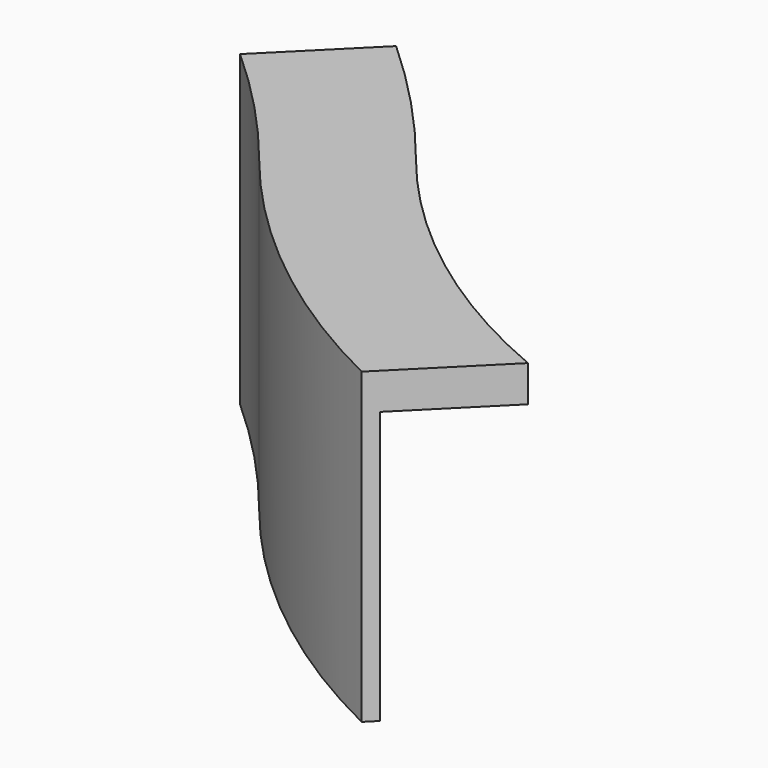
from build123d import *

# Parameters (mm, degrees)
F1_DEPTH = 762
F2_DEPTH = 101.6


with BuildPart() as f1:
    # F0 (on Top) → F1 (new body)
    with BuildSketch(Plane.XY):
        with BuildLine():
            ThreePointArc((235.1335953361, -1335.4259384174), (68.6110681715, -1144.2222922582), (-113.1126602512, -967.4029695416))
            Line((-113.1126602512, -967.4029695417), (-140.0946805009, -994.3849897914))
            ThreePointArc((-140.0946805009, -994.3849897914), (40.2165122878, -1169.6480942039), (205.3941685761, -1359.241405996))
            ThreePointArc((205.3941685761, -1359.241405996), (289.4835438119, -1458.5158098376), (378.9109891767, -1553.0100546421))
            Line((378.9109891767, -1553.0100546421), (405.8517575399, -1526.0692862789))
            ThreePointArc((405.8517575399, -1526.0692862788), (317.8666903261, -1433.099142197), (235.1335953361, -1335.4259384174))
        make_face()
        with BuildLine():
            ThreePointArc((1035.5082130261, -1974.043565321), (701.930828787, -1776.4095625199), (405.8517575399, -1526.0692862788))
            Line((405.8517575399, -1526.0692862789), (378.9109891767, -1553.0100546421))
            ThreePointArc((378.9109891767, -1553.0100546421), (674.4672939822, -1803.6177664148), (1007.0187581608, -2002.5330201863))
            Line((1007.0187581608, -2002.5330201863), (1035.5082130261, -1974.043565321))
        make_face()
    extrude(amount=-F1_DEPTH)

    # F0 (on Top) → F2 (join)
    with BuildSketch(Plane.XY):
        with BuildLine():
            ThreePointArc((473.049009416, -1144.9021977887), (295.7580255932, -940.8230955263), (102.709921508, -751.5803877826))
            Line((102.709921508, -751.5803877825), (-95.1252118494, -949.4155211399))
            ThreePointArc((-95.1252118494, -949.4155211398), (87.5406120902, -1127.2718787812), (254.9598798427, -1319.5489600317))
            ThreePointArc((254.9598798427, -1319.5489600317), (336.7887880023, -1416.1546971033), (423.8122697821, -1508.1087740368))
            Line((423.8122697821, -1508.1087740367), (621.3779044456, -1310.5431393732))
            ThreePointArc((621.3779044456, -1310.5431393732), (544.9318624402, -1229.7658010726), (473.049009416, -1144.9021977887))
        make_face()
        with BuildLine():
            ThreePointArc((254.9598798427, -1319.5489600317), (87.5406120902, -1127.2718787812), (-95.1252118494, -949.4155211398))
            Line((-95.1252118494, -949.4155211399), (-113.1126602512, -967.4029695417))
            ThreePointArc((-113.1126602512, -967.4029695416), (68.6110681715, -1144.2222922582), (235.1335953361, -1335.4259384174))
            ThreePointArc((235.1335953361, -1335.4259384174), (317.8666903261, -1433.099142197), (405.8517575399, -1526.0692862788))
            Line((405.8517575399, -1526.0692862789), (423.8122697821, -1508.1087740367))
            ThreePointArc((423.8122697821, -1508.1087740368), (336.7887880023, -1416.1546971033), (254.9598798427, -1319.5489600317))
        make_face()
        with BuildLine():
            ThreePointArc((235.1335953361, -1335.4259384174), (68.6110681715, -1144.2222922582), (-113.1126602512, -967.4029695416))
            Line((-113.1126602512, -967.4029695417), (-140.0946805009, -994.3849897914))
            ThreePointArc((-140.0946805009, -994.3849897914), (40.2165122878, -1169.6480942039), (205.3941685761, -1359.241405996))
            ThreePointArc((205.3941685761, -1359.241405996), (289.4835438119, -1458.5158098376), (378.9109891767, -1553.0100546421))
            Line((378.9109891767, -1553.0100546421), (405.8517575399, -1526.0692862789))
            ThreePointArc((405.8517575399, -1526.0692862788), (317.8666903261, -1433.099142197), (235.1335953361, -1335.4259384174))
        make_face()
        with BuildLine():
            ThreePointArc((1265.758927662, -1743.7928506851), (922.5474787999, -1558.4328584624), (621.3779044456, -1310.5431393732))
            Line((621.3779044456, -1310.5431393732), (423.8122697821, -1508.1087740367))
            ThreePointArc((423.8122697821, -1508.1087740368), (720.2517410034, -1758.2664704913), (1054.5322817128, -1955.0194966343))
            Line((1054.5322817128, -1955.0194966343), (1265.758927662, -1743.7928506851))
        make_face()
        with BuildLine():
            ThreePointArc((1054.5322817128, -1955.0194966343), (720.2517410034, -1758.2664704913), (423.8122697821, -1508.1087740368))
            Line((423.8122697821, -1508.1087740367), (405.8517575399, -1526.0692862789))
            ThreePointArc((405.8517575399, -1526.0692862788), (701.930828787, -1776.4095625199), (1035.5082130261, -1974.043565321))
            Line((1035.5082130261, -1974.043565321), (1054.5322817128, -1955.0194966343))
        make_face()
        with BuildLine():
            ThreePointArc((1035.5082130261, -1974.043565321), (701.930828787, -1776.4095625199), (405.8517575399, -1526.0692862788))
            Line((405.8517575399, -1526.0692862789), (378.9109891767, -1553.0100546421))
            ThreePointArc((378.9109891767, -1553.0100546421), (674.4672939822, -1803.6177664148), (1007.0187581608, -2002.5330201863))
            Line((1007.0187581608, -2002.5330201863), (1035.5082130261, -1974.043565321))
        make_face()
    extrude(amount=F2_DEPTH)


solid = f1.part
